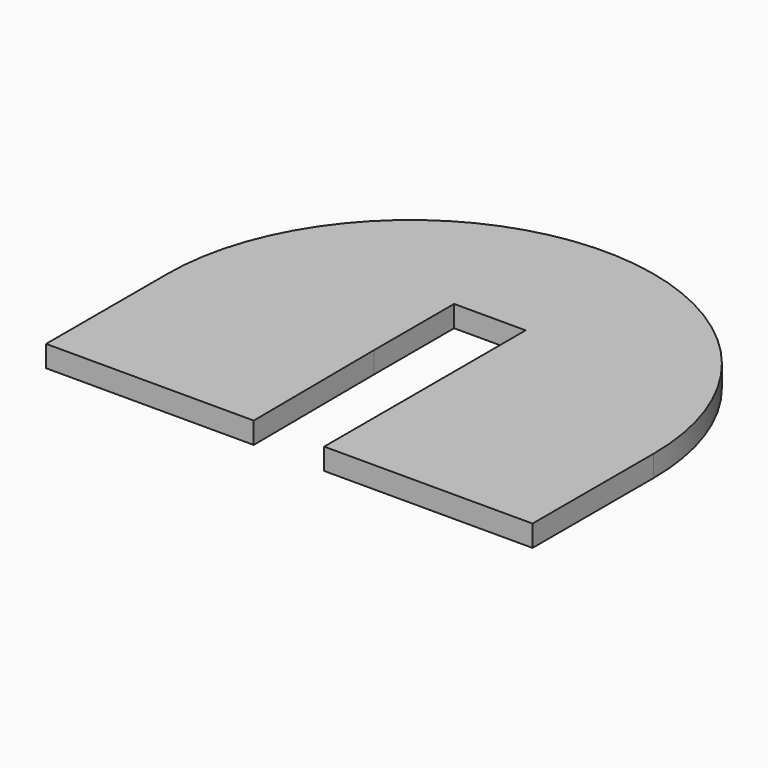
from build123d import *

# Parameters (mm, degrees)
F1_DEPTH = 1.5


with BuildPart() as f1:
    # F0 (on Top) → F1 (new body)
    with BuildSketch(Plane.XY):
        with BuildLine():
            Line((17.480557, -15.692959), (17.480557, -5.109434))
            ThreePointArc((17.480557, -5.109434), (0.480557, 11.890566), (-16.519443, -5.109434))
            Line((-16.519443, -5.109434), (-16.519443, -15.692959))
            Line((-16.519443, -15.692959), (-2.00486, -15.692959))
            Line((-2.00486, -15.692959), (-2.081214, -5.109434))
            Line((-2.081214, -5.109434), (-2.081214, 1.907042))
            Line((-2.081214, 1.907042), (0.418786, 1.907042))
            Line((0.418786, 1.907042), (2.918786, 1.907042))
            Line((2.918786, 1.907042), (2.918786, -5.109434))
            Line((2.918786, -5.109434), (2.918786, -15.692959))
            Line((2.918786, -15.692959), (17.480557, -15.692959))
        make_face()
    extrude(amount=F1_DEPTH)


solid = f1.part
